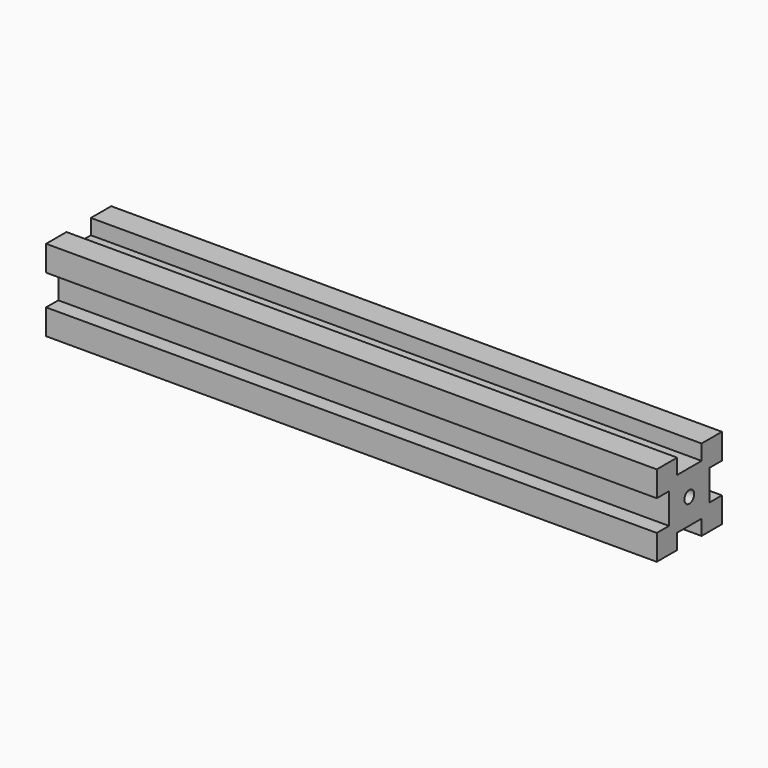
from build123d import *

# Parameters (mm, degrees)
F0_R     = 3
F1_DEPTH = 300
F2_R     = 3.1
F3_DEPTH = 50
F4_R     = 3
F5_DEPTH = 50


with BuildPart() as f1:
    # F0 (on Right) → F1 (new body)
    with BuildSketch(Plane.YZ):
        Polygon((20, 7.5), (20, 20), (7.5, 20), (7.5, 12.5), (-7.5, 12.5), (-7.5, 20), (-20, 20), (-20, 7.5), (-12.5, 7.5), (-12.5, -7.5), (-20, -7.5), (-20, -20), (-7.5, -20), (-7.5, -12.5), (7.5, -12.5), (7.5, -20), (20, -20), (20, -7.5), (12.5, -7.5), (12.5, 7.5), align=None)
        Circle(F0_R, mode=Mode.SUBTRACT)
    extrude(amount=F1_DEPTH)

    # F2 (on face) → F3 (cut)
    with BuildSketch(Plane.XY.offset(12.5)):
        with Locations((250, 0)):
            Circle(F2_R)
        with Locations((211.5, 0)):
            Circle(F2_R)
    extrude(amount=-F3_DEPTH, mode=Mode.SUBTRACT)

    # F4 (on face) → F5 (cut)
    with BuildSketch(Plane.XY.offset(12.5)):
        with Locations((50, 0)):
            Circle(F4_R)
        with Locations((100, 0)):
            Circle(F4_R)
    extrude(amount=-F5_DEPTH, mode=Mode.SUBTRACT)


solid = f1.part
